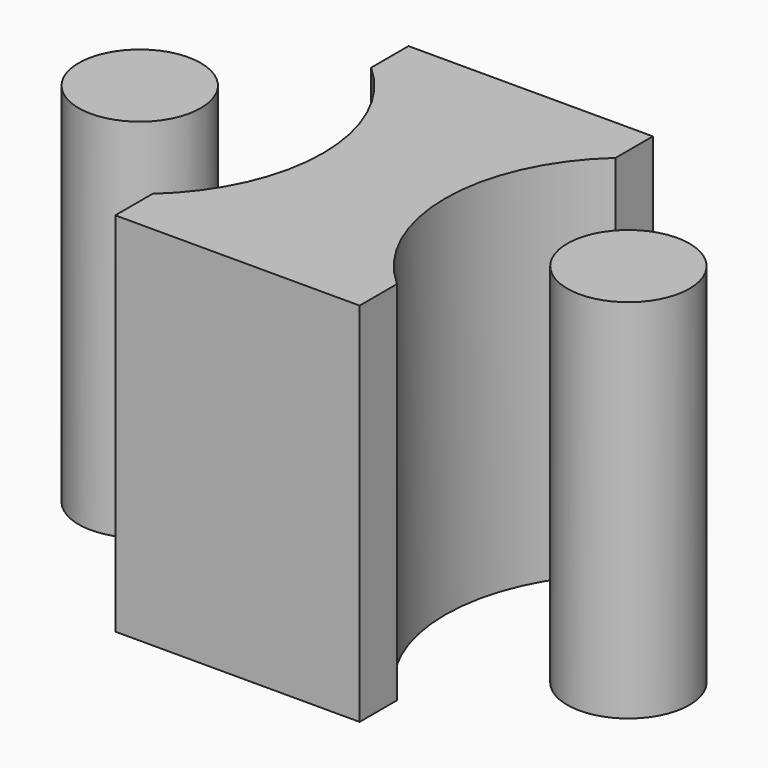
from build123d import *

# Parameters (mm, degrees)
F0_R     = 6.35
F1_DEPTH = 38.1


with BuildPart() as f1:
    # F0 (on Top) → F1 (new body)
    with BuildSketch(Plane.XY):
        with Locations((-76.2, 0)):
            Circle(F0_R)
        with BuildLine():
            ThreePointArc((-38.1, -14.199032), (-44.45, 0), (-38.1, 14.199032))
            Line((-38.1, 14.199032), (-38.1, 19.05))
            Line((-38.1, 19.05), (-63.5, 19.05))
            Line((-63.5, 19.05), (-63.5, 14.199032))
            ThreePointArc((-63.5, 14.199032), (-57.15, 0), (-63.5, -14.199032))
            Line((-63.5, -14.199032), (-63.5, -19.05))
            Line((-63.5, -19.05), (-38.1, -19.05))
            Line((-38.1, -19.05), (-38.1, -14.199032))
        make_face()
        with Locations((-25.4, 0)):
            Circle(F0_R)
    extrude(amount=F1_DEPTH)


solid = f1.part
